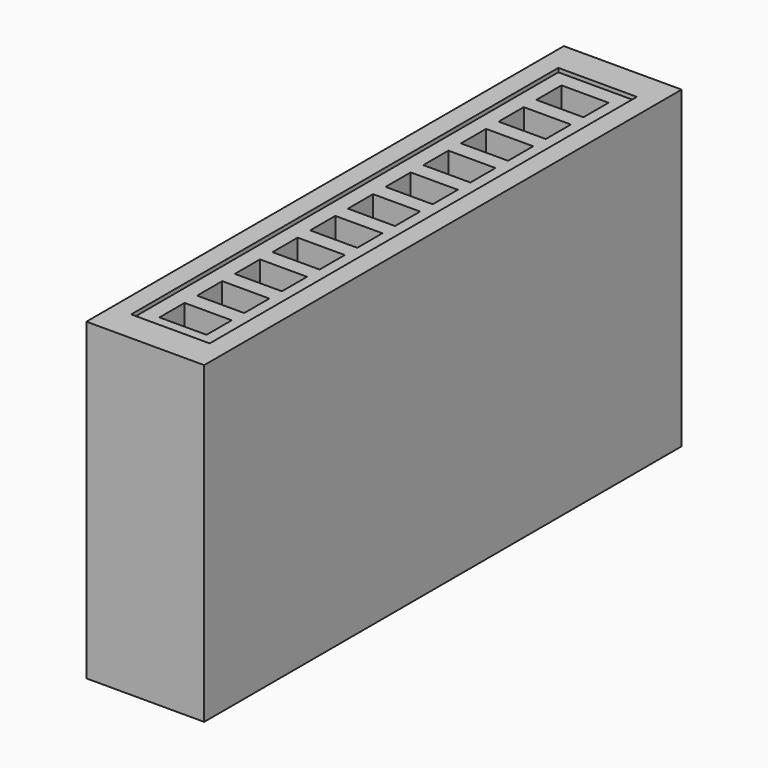
from build123d import *

# Parameters (mm, degrees)
F0_W     = 0.4
F0_H     = 0.8
F0_W_2   = 1.2
F1_DEPTH = 8
F0_H_2   = 0.4
F2_DEPTH = 7.9
F3_DEPTH = 0.1


with BuildPart() as f1:
    # F0 (on Top) → F1 (new body)
    with BuildSketch(Plane.XY):
        with Locations((-119.9873028874, 4.3633364267)):
            Rectangle(F0_W, F0_H)
        Polygon((-120.6873028874, 19.1633364267), (-120.6873028874, 3.9633364267), (-120.1873028874, 3.9633364267), (-120.1873028874, 4.7633364267), (-120.1873028874, 5.1633364267), (-120.1873028874, 5.9633364267), (-120.1873028874, 6.3633364267), (-120.1873028874, 7.1633364267), (-120.1873028874, 7.5633364267), (-120.1873028874, 8.3633364267), (-120.1873028874, 8.7633364267), (-120.1873028874, 9.5633364267), (-120.1873028874, 9.9633364267), (-120.1873028874, 10.7633364267), (-120.1873028874, 11.1633364267), (-120.1873028874, 11.9633364267), (-120.1873028874, 12.3633364267), (-120.1873028874, 13.1633364267), (-120.1873028874, 13.5633364267), (-120.1873028874, 14.3633364267), (-120.1873028874, 14.7633364267), (-120.1873028874, 15.5633364267), (-120.1873028874, 15.9633364267), (-120.1873028874, 16.7633364267), (-120.1873028874, 17.1633364267), (-120.1873028874, 17.9633364267), (-120.1873028874, 18.3633364267), (-120.1873028874, 19.1633364267), align=None)
        with Locations((-119.1873028874, 4.3633364267)):
            Rectangle(F0_W_2, F0_H)
        with Locations((-118.3873028874, 4.3633364267)):
            Rectangle(F0_W, F0_H)
        with Locations((-119.9873028874, 18.7633364267)):
            Rectangle(F0_W, F0_H)
        with Locations((-119.1873028874, 18.7633364267)):
            Rectangle(F0_W_2, F0_H)
        with Locations((-118.3873028874, 18.7633364267)):
            Rectangle(F0_W, F0_H)
        Polygon((-118.1873028874, 4.7633364267), (-118.1873028874, 3.9633364267), (-117.6873028874, 3.9633364267), (-117.6873028874, 19.1633364267), (-118.1873028874, 19.1633364267), (-118.1873028874, 18.3633364267), (-118.1873028874, 17.9633364267), (-118.1873028874, 17.1633364267), (-118.1873028874, 16.7633364267), (-118.1873028874, 15.9633364267), (-118.1873028874, 15.5633364267), (-118.1873028874, 14.7633364267), (-118.1873028874, 14.3633364267), (-118.1873028874, 13.5633364267), (-118.1873028874, 13.1633364267), (-118.1873028874, 12.3633364267), (-118.1873028874, 11.9633364267), (-118.1873028874, 11.1633364267), (-118.1873028874, 10.7633364267), (-118.1873028874, 9.9633364267), (-118.1873028874, 9.5633364267), (-118.1873028874, 8.7633364267), (-118.1873028874, 8.3633364267), (-118.1873028874, 7.5633364267), (-118.1873028874, 7.1633364267), (-118.1873028874, 6.3633364267), (-118.1873028874, 5.9633364267), (-118.1873028874, 5.1633364267), align=None)
    extrude(amount=F1_DEPTH)

    # F0 (on Top) → F2 (join)
    with BuildSketch(Plane.XY):
        with Locations((-119.9873028874, 4.9633364267)):
            Rectangle(F0_W, F0_H_2)
        with Locations((-119.1873028874, 4.9633364267)):
            Rectangle(F0_W_2, F0_H_2)
        with Locations((-118.3873028874, 4.9633364267)):
            Rectangle(F0_W, F0_H_2)
        with Locations((-118.3873028874, 5.5633364267)):
            Rectangle(F0_W, F0_H)
        with Locations((-118.3873028874, 6.1633364267)):
            Rectangle(F0_W, F0_H_2)
        with Locations((-119.1873028874, 6.1633364267)):
            Rectangle(F0_W_2, F0_H_2)
        with Locations((-119.9873028874, 6.1633364267)):
            Rectangle(F0_W, F0_H_2)
        with Locations((-119.9873028874, 5.5633364267)):
            Rectangle(F0_W, F0_H)
        with Locations((-119.9873028874, 6.7633364267)):
            Rectangle(F0_W, F0_H)
        with Locations((-119.9873028874, 8.5633364267)):
            Rectangle(F0_W, F0_H_2)
        with Locations((-119.9873028874, 9.1633364267)):
            Rectangle(F0_W, F0_H)
        with Locations((-119.9873028874, 9.7633364267)):
            Rectangle(F0_W, F0_H_2)
        with Locations((-119.9873028874, 10.3633364267)):
            Rectangle(F0_W, F0_H)
        with Locations((-119.9873028874, 11.5633364267)):
            Rectangle(F0_W, F0_H)
        with Locations((-119.9873028874, 12.7633364267)):
            Rectangle(F0_W, F0_H)
        with Locations((-119.9873028874, 13.3633364267)):
            Rectangle(F0_W, F0_H_2)
        with Locations((-119.9873028874, 14.5633364267)):
            Rectangle(F0_W, F0_H_2)
        with Locations((-119.9873028874, 15.1633364267)):
            Rectangle(F0_W, F0_H)
        with Locations((-119.9873028874, 15.7633364267)):
            Rectangle(F0_W, F0_H_2)
        with Locations((-119.9873028874, 16.3633364267)):
            Rectangle(F0_W, F0_H)
        with Locations((-119.9873028874, 16.9633364267)):
            Rectangle(F0_W, F0_H_2)
        with Locations((-119.9873028874, 17.5633364267)):
            Rectangle(F0_W, F0_H)
        with Locations((-119.9873028874, 18.1633364267)):
            Rectangle(F0_W, F0_H_2)
        with Locations((-119.1873028874, 18.1633364267)):
            Rectangle(F0_W_2, F0_H_2)
        with Locations((-118.3873028874, 18.1633364267)):
            Rectangle(F0_W, F0_H_2)
        with Locations((-118.3873028874, 17.5633364267)):
            Rectangle(F0_W, F0_H)
        with Locations((-118.3873028874, 16.9633364267)):
            Rectangle(F0_W, F0_H_2)
        with Locations((-118.3873028874, 16.3633364267)):
            Rectangle(F0_W, F0_H)
        with Locations((-118.3873028874, 15.7633364267)):
            Rectangle(F0_W, F0_H_2)
        with Locations((-118.3873028874, 15.1633364267)):
            Rectangle(F0_W, F0_H)
        with Locations((-118.3873028874, 13.9633364267)):
            Rectangle(F0_W, F0_H)
        with Locations((-118.3873028874, 14.5633364267)):
            Rectangle(F0_W, F0_H_2)
        with Locations((-118.3873028874, 11.5633364267)):
            Rectangle(F0_W, F0_H)
        with Locations((-118.3873028874, 10.9633364267)):
            Rectangle(F0_W, F0_H_2)
        with Locations((-118.3873028874, 10.3633364267)):
            Rectangle(F0_W, F0_H)
        with Locations((-118.3873028874, 8.5633364267)):
            Rectangle(F0_W, F0_H_2)
        with Locations((-118.3873028874, 7.9633364267)):
            Rectangle(F0_W, F0_H)
        with Locations((-118.3873028874, 7.3633364267)):
            Rectangle(F0_W, F0_H_2)
        with Locations((-118.3873028874, 6.7633364267)):
            Rectangle(F0_W, F0_H)
        with Locations((-119.9873028874, 7.3633364267)):
            Rectangle(F0_W, F0_H_2)
        with Locations((-119.9873028874, 10.9633364267)):
            Rectangle(F0_W, F0_H_2)
        with Locations((-119.9873028874, 12.1633364267)):
            Rectangle(F0_W, F0_H_2)
        with Locations((-119.9873028874, 13.9633364267)):
            Rectangle(F0_W, F0_H)
        with Locations((-119.9873028874, 7.9633364267)):
            Rectangle(F0_W, F0_H)
        with Locations((-119.1873028874, 16.9633364267)):
            Rectangle(F0_W_2, F0_H_2)
        with Locations((-119.1873028874, 15.7633364267)):
            Rectangle(F0_W_2, F0_H_2)
        with Locations((-119.1873028874, 14.5633364267)):
            Rectangle(F0_W_2, F0_H_2)
        with Locations((-119.1873028874, 13.3633364267)):
            Rectangle(F0_W_2, F0_H_2)
        with Locations((-119.1873028874, 12.1633364267)):
            Rectangle(F0_W_2, F0_H_2)
        with Locations((-119.1873028874, 10.9633364267)):
            Rectangle(F0_W_2, F0_H_2)
        with Locations((-119.1873028874, 9.7633364267)):
            Rectangle(F0_W_2, F0_H_2)
        with Locations((-119.1873028874, 8.5633364267)):
            Rectangle(F0_W_2, F0_H_2)
        with Locations((-119.1873028874, 7.3633364267)):
            Rectangle(F0_W_2, F0_H_2)
        with Locations((-118.3873028874, 9.1633364267)):
            Rectangle(F0_W, F0_H)
        with Locations((-118.3873028874, 9.7633364267)):
            Rectangle(F0_W, F0_H_2)
        with Locations((-118.3873028874, 12.1633364267)):
            Rectangle(F0_W, F0_H_2)
        with Locations((-118.3873028874, 12.7633364267)):
            Rectangle(F0_W, F0_H)
        with Locations((-118.3873028874, 13.3633364267)):
            Rectangle(F0_W, F0_H_2)
    extrude(amount=F2_DEPTH)

    # F0 (on Top) → F3 (join)
    with BuildSketch(Plane.XY):
        with Locations((-119.1873028874, 17.5633364267)):
            Rectangle(F0_W_2, F0_H)
        with Locations((-119.1873028874, 16.3633364267)):
            Rectangle(F0_W_2, F0_H)
        with Locations((-119.1873028874, 15.1633364267)):
            Rectangle(F0_W_2, F0_H)
        with Locations((-119.1873028874, 13.9633364267)):
            Rectangle(F0_W_2, F0_H)
        with Locations((-119.1873028874, 12.7633364267)):
            Rectangle(F0_W_2, F0_H)
        with Locations((-119.1873028874, 11.5633364267)):
            Rectangle(F0_W_2, F0_H)
        with Locations((-119.1873028874, 10.3633364267)):
            Rectangle(F0_W_2, F0_H)
        with Locations((-119.1873028874, 9.1633364267)):
            Rectangle(F0_W_2, F0_H)
        with Locations((-119.1873028874, 7.9633364267)):
            Rectangle(F0_W_2, F0_H)
        with Locations((-119.1873028874, 6.7633364267)):
            Rectangle(F0_W_2, F0_H)
        with Locations((-119.1873028874, 5.5633364267)):
            Rectangle(F0_W_2, F0_H)
    extrude(amount=F3_DEPTH)


solid = f1.part
